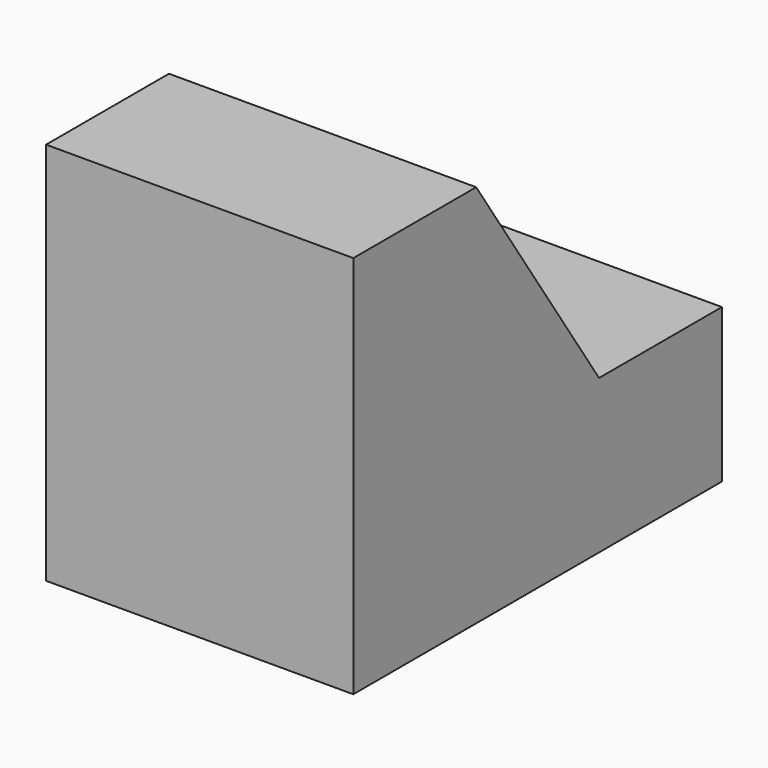
from build123d import *

# Parameters (mm, degrees)
F0_W     = 38.1
F0_H     = 31.75
F1_DEPTH = 25.4
F3_DEPTH = 25.401


with BuildPart() as f1:
    # F0 (on Right) → F1 (new body)
    with BuildSketch(Plane.YZ):
        with Locations((19.05, 15.875)):
            Rectangle(F0_W, F0_H)
        with Locations((19.05, 15.875)):
            Rectangle(F0_W, F0_H)
    extrude(amount=F1_DEPTH)

    # F2 (on face) → F3 (cut, through all)
    with BuildSketch(Plane.YZ.offset(25.4)):
        Polygon((25.4, 12.7), (38.1, 12.7), (38.1, 31.75), (12.7, 31.75), align=None)
    extrude(amount=-F3_DEPTH, mode=Mode.SUBTRACT)


solid = f1.part
